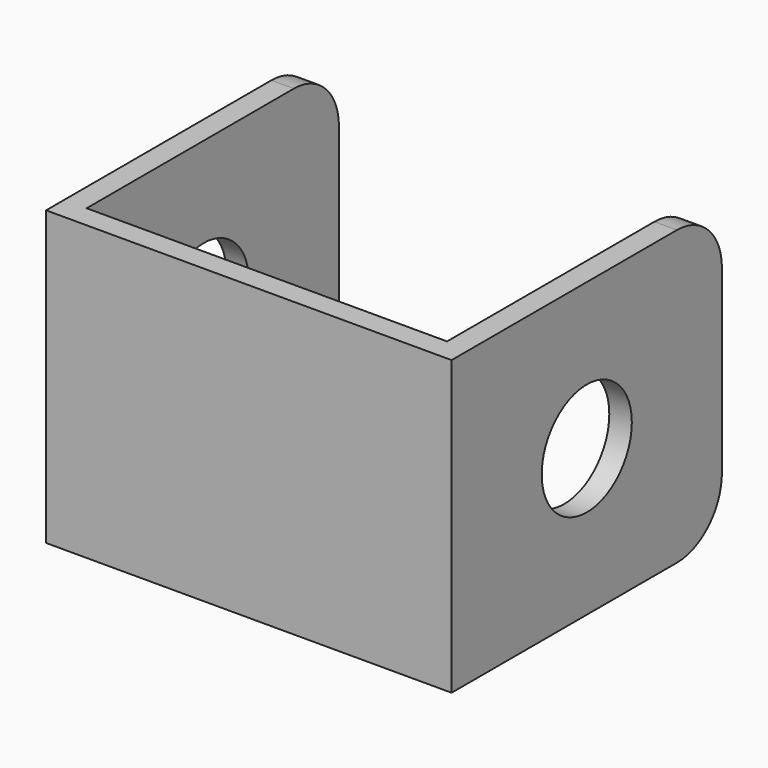
from build123d import *

# Parameters (mm, degrees)
F1_DEPTH = 26
F2_R     = 5
F3_DEPTH = 36.001
F4_R     = 5


with BuildPart() as f1:
    # F0 (on Top) → F1 (new body)
    with BuildSketch(Plane.XY):
        Polygon((-16, 15), (-18, 15), (-18, -15), (18, -15), (18, 15), (16, 15), (16, -13), (-16, -13), align=None)
    extrude(amount=F1_DEPTH)

    # F2 (on face) → F3 (cut, through all)
    with BuildSketch(Plane.YZ.offset(18)):
        with Locations((0, 13)):
            Circle(F2_R)
    extrude(amount=-F3_DEPTH, mode=Mode.SUBTRACT)

    # F4
    f4_edges = [f1.edges().sort_by_distance(p)[0] for p in [
        (17, 15, 0),
        (-17, 15, 0),
        (-17, 15, 26),
        (17, 15, 26),
    ]]
    fillet(f4_edges, radius=F4_R)


solid = f1.part
